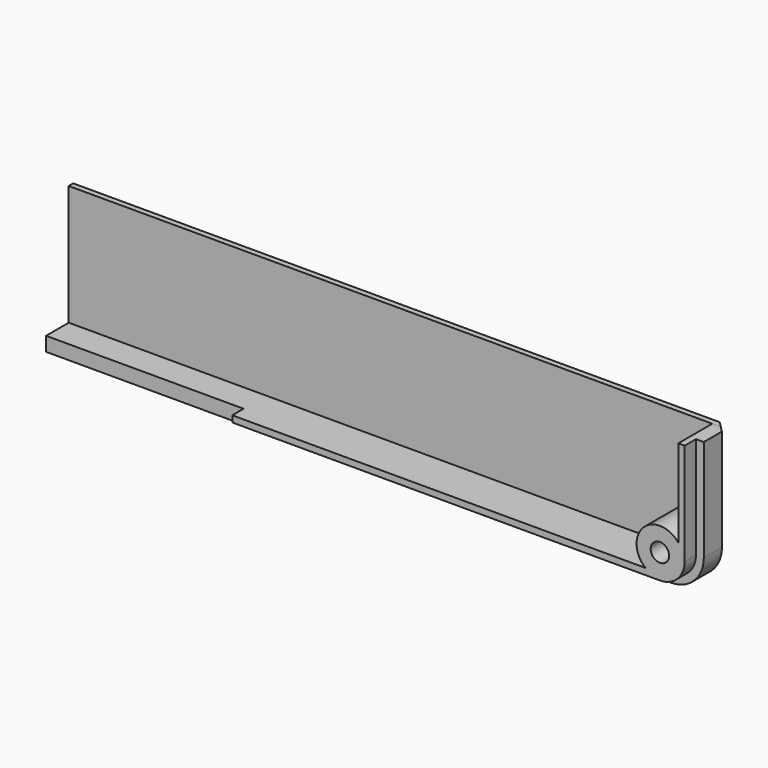
from build123d import *

# Parameters (mm, degrees)
SKETCH005_R      = 1.3
EXTRUDE003_DEPTH = 20
EXTRUDE039_DEPTH = 4
EXTRUDE042_DEPTH = 0.8
EXTRUDE002_DEPTH = 6
EXTRUDE037_DEPTH = 2


with BuildPart() as sweep001:
    # Sweep001: sweep along a path in Sketch034
    with BuildLine(Plane.XZ.offset(10)) as sweep001_path:
        Line((32, 11.999174), (32, 26.4))
        ThreePointArc((32, 26.4), (30.652691, 29.652691), (27.4, 31))
        Line((27.4, 31), (-60.9, 31))
    # Sketch035 → Sweep001 (sweep)
    with BuildSketch(Plane.YZ):
        Polygon((5.3, 29.4), (3.7, 31), (3.7, 32), (6, 32), (6, 29.4), align=None)
    sweep(path=sweep001_path.line)


with BuildPart() as fusion030:
    # Sketch005 → Extrude003 (new body)
    with BuildSketch(Plane.XZ.offset(5)):
        with Locations((27.4, 26.4)):
            Circle(SKETCH005_R)
    extrude(amount=-EXTRUDE003_DEPTH)


with BuildPart() as fusion030_1:
    # Extrude003 placement: moved
    add(fusion030.part.moved(Location((0, -4, 0))))

    # Fusion030: union Sweep001
    add(sweep001.part)


with BuildPart() as top003:
    # Sketch028 → Extrude039 (new body)
    with BuildSketch(Plane.XZ.offset(10)):
        with BuildLine():
            ThreePointArc((32, 26.4), (30.652691, 29.652691), (27.4, 31))
            Line((27.4, 31), (-60.9, 31))
            Line((-60.9, 31), (-60.9, 29))
            Line((-60.9, 29), (27.4, 29))
            ThreePointArc((30, 26.4), (29.238478, 28.238478), (27.4, 29))
            Line((30, 12), (30, 26.4))
            Line((32, 12), (30, 12))
            Line((32, 26.4), (32, 12))
        make_face()
    extrude(amount=EXTRUDE039_DEPTH)


with BuildPart() as top003_1:
    # Extrude039 placement: moved
    add(top003.part.moved(Location((0, 14.5, 0))))


with BuildPart() as top002:
    # Sketch031 → Extrude042 (new body)
    with BuildSketch(Plane.XZ.offset(10)):
        with BuildLine():
            ThreePointArc((32, 26.399981), (30.652691, 29.652672), (27.4, 30.999981))
            Line((27.4, 30.999981), (-60.9, 30.999981))
            Line((-60.9, 30.999981), (-60.9, 11.999981))
            Line((-60.9, 11.999981), (32, 11.999981))
            Line((32, 26.399981), (32, 11.999981))
        make_face()
    extrude(amount=EXTRUDE042_DEPTH)


with BuildPart() as top002_1:
    # Extrude042 placement: moved
    add(top002.part.moved(Location((0, 15.3, 0))))


with BuildPart() as screw_hole_top:
    # Sketch004 → Extrude002 (new body)
    with BuildSketch(Plane.XZ.offset(10)):
        with BuildLine():
            ThreePointArc((25.36776, 29), (25.066548, 24.066548), (30, 24.36776))
            Line((30, 24.36776), (30, 26.4))
            ThreePointArc((30, 26.4), (29.238478, 28.238478), (27.4, 29))
            Line((25.36776, 29), (27.4, 29))
        make_face()
    extrude(amount=-EXTRUDE002_DEPTH)


with BuildPart() as screw_hole_top_1:
    # Extrude002 placement: moved
    add(screw_hole_top.part.moved(Location((0, 8.5, 0))))


with BuildPart() as top:
    # Sketch029 → Extrude037 (new body)
    with BuildSketch(Plane.XZ.offset(10)):
        with BuildLine():
            ThreePointArc((30.9, 26.4), (29.874874, 28.874874), (27.4, 29.9))
            Line((27.4, 29.9), (-33, 29.9))
            Line((-33, 29.9), (-33, 29))
            Line((-33, 29), (27.4, 29))
            ThreePointArc((30, 26.4), (29.238478, 28.238478), (27.4, 29))
            Line((30, 12), (30, 26.4))
            Line((30.9, 12), (30, 12))
            Line((30.9, 26.4), (30.9, 12))
        make_face()
    extrude(amount=EXTRUDE037_DEPTH)


with BuildPart() as top_1:
    # Extrude037 placement: moved
    add(top.part.moved(Location((0, 10.5, 0))))

    # Fusion028: union top003, top002, screw hole top
    add(top003_1.part)
    add(top002_1.part)
    add(screw_hole_top_1.part)

    # Cut024: cut Fusion030
    add(fusion030_1.part, mode=Mode.SUBTRACT)


with BuildPart() as part_mirroring001:
    # Part__Mirroring001: instance of top
    add(top_1.part.mirror(Plane(origin=(0, 0, 0), x_dir=(0, 1, 0), z_dir=(0, 0, 1))))


solid = part_mirroring001.part
